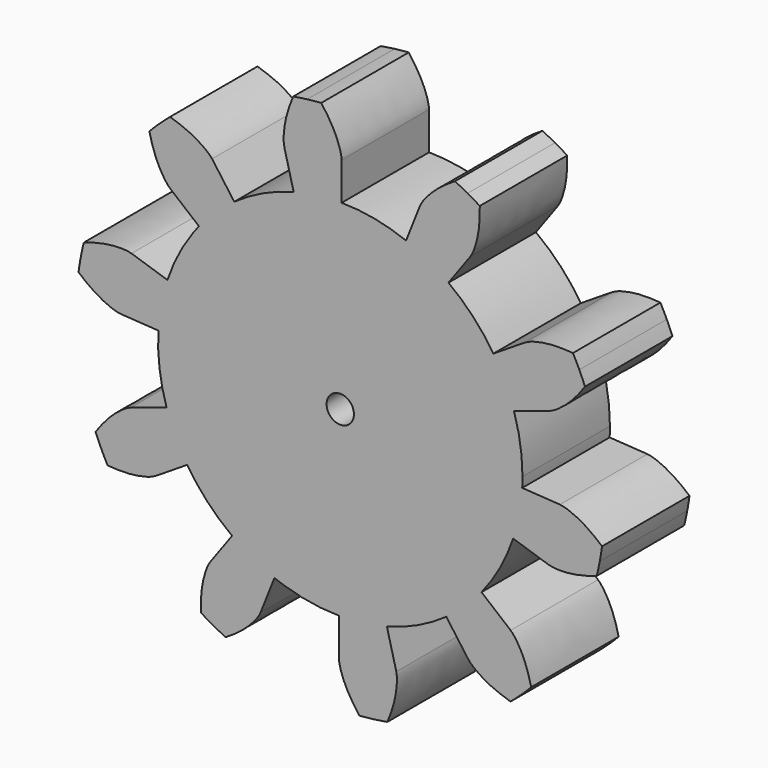
from build123d import *

# Parameters (mm, degrees)
F5_DEPTH  = 12
F6_DEPTH  = 12
F10_COUNT = 10
F11_R     = 1.5
F12_DEPTH = 12


with BuildPart() as f5:
    # F4 (on Front) → F5 (new body)
    with BuildSketch(Plane.XZ):
        with BuildLine():
            ThreePointArc((-42.1336550355, 50.8423546179), (-49.2155740595, 15.659488992), (-17.0160362734, 31.5080654919))
            ThreePointArc((-17.0160362734, 31.5080654919), (-22.8215208918, 45.5976656552), (-36.8676255419, 51.5076088507))
            ThreePointArc((-36.8676255419, 51.5076088507), (-38.1978319555, 51.4732194167), (-39.5228075255, 51.3504534819))
            ThreePointArc((-39.5228075255, 51.3504534819), (-40.836687198, 51.1398544741), (-42.1336550355, 50.8423546179))
        make_face()
    extrude(amount=F5_DEPTH)

    # F3 (on Front) → F6 (join)
    with BuildSketch(Plane.XZ):
        with BuildLine():
            Line((-36.8676255419, 51.5076088507), (-36.8676255419, 55.655754508))
            add(Edge.make_bspline(
                [(-36.8676255419, 55.655754508), (-36.9182486647, 55.8275195045), (-36.8577379043, 55.7888785788), (-36.9106551802, 56.0214722376), (-36.9340199346, 56.1701653179), (-36.9749071868, 56.3457638723), (-37.0164705958, 56.5240061727), (-37.2516512679, 57.2901395203), (-37.6497946045, 58.1704752126), (-38.2126185141, 59.2179250722), (-38.8763182937, 60.1221521991), (-39.1022928847, 60.4329324497)],
                knots=[0, 0, 0, 0, 0.0681916602, 0.1341662667, 0.1997551747, 0.2644496665, 0.3314736056, 0.4703894953, 0.629540652, 0.8066297901, 1, 1, 1, 1], degree=3))
            ThreePointArc((-39.1022928847, 60.4329324497), (-39.8775738505, 60.3665502879), (-40.6507947572, 60.27939183))
            ThreePointArc((-40.6507947572, 60.27939183), (-41.4213989343, 60.1715198246), (-42.1888315953, 60.0430119328))
            add(Edge.make_bspline(
                [(-43.1652569109, 54.8601786514), (-43.1589404242, 55.0391367935), (-43.2079405203, 54.9866614293), (-43.2145294288, 55.225107722), (-43.2288771864, 55.3749399139), (-43.2329440672, 55.5551899629), (-43.2370135067, 55.7381688532), (-43.1997510835, 56.5387197676), (-43.033046736, 57.4904123168), (-42.7483951619, 58.6449232275), (-42.3304188734, 59.6857978197), (-42.1888315953, 60.0430119328)],
                knots=[0, 0, 0, 0, 0.0681916602, 0.1341662667, 0.1997551747, 0.2644496665, 0.3314736056, 0.4703894953, 0.629540652, 0.8066297901, 1, 1, 1, 1], degree=3))
            Line((-43.1652569109, 54.8601786514), (-42.1336550355, 50.8423546179))
            ThreePointArc((-42.1336550355, 50.8423546179), (-40.836687198, 51.1398544741), (-39.5228075255, 51.3504534819))
            ThreePointArc((-39.5228075255, 51.3504534819), (-38.1978319555, 51.4732194167), (-36.8676255419, 51.5076088507))
        make_face()
    extrude(amount=F6_DEPTH)

    # F10: F5 ×10 about axis
    f10_axis = Axis((-37.0161309838, 15.3900273144, 31.5080654919), (0, 1, 0))


with BuildPart() as f5_1:
    add(f5.part)
    for i in range(1, F10_COUNT):
        add(f5.part.rotate(f10_axis, i * 360 / F10_COUNT))

    # F11 (on Front) → F12 (cut)
    with BuildSketch(Plane.XZ):
        with Locations((-37.0161309838, 31.5080654919)):
            Circle(F11_R)
    extrude(amount=F12_DEPTH, mode=Mode.SUBTRACT)


solid = f5_1.part
